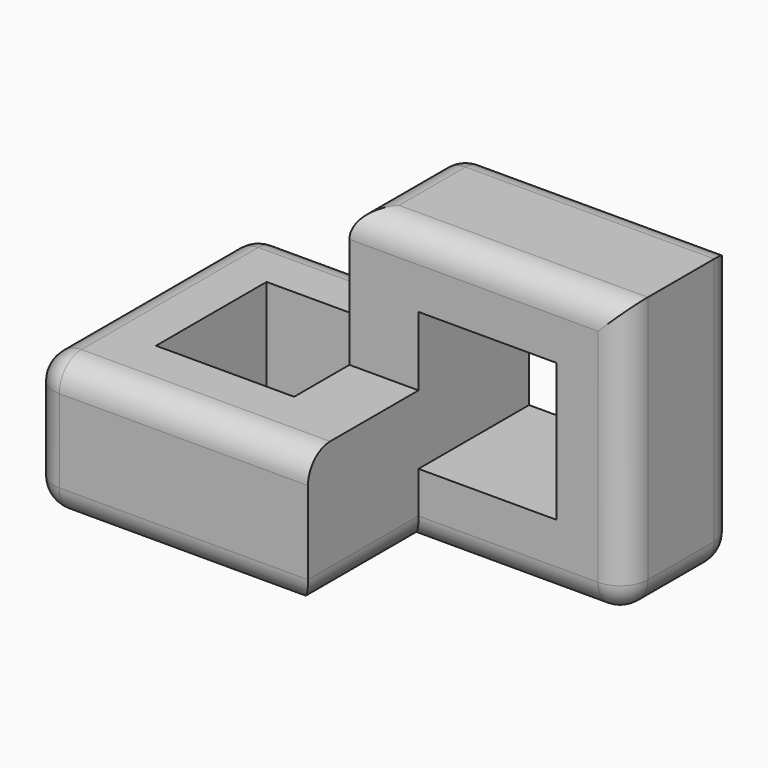
from build123d import *

# Parameters (mm, degrees)
F0_W     = 35
F0_H     = 20
F0_W_2   = 10
F0_H_2   = 10
F1_DEPTH = 20
F2_W     = 10
F2_H     = 5
F3_DEPTH = 25
F5_DEPTH = 10
F6_DEPTH = 10
F7_R     = 2


with BuildPart() as f1:
    # F0 (on Top) → F1 (new body)
    with BuildSketch(Plane.XY):
        with Locations((12.5, 5)):
            Rectangle(F0_W, F0_H)
        with Locations((5, 5)):
            Rectangle(F0_W_2, F0_H_2, mode=Mode.SUBTRACT)
    extrude(amount=F1_DEPTH)

    # F2 (on face) → F3 (cut)
    with BuildSketch(Plane.XZ.offset(5)):
        with Locations((20, 12.5)):
            Rectangle(F2_W, F2_H)
        with Locations((20, 7.5)):
            Rectangle(F2_W, F2_H)
    extrude(amount=-F3_DEPTH, mode=Mode.SUBTRACT)

    # F4 (on face) → F5 (cut)
    with BuildSketch(Plane.XY.offset(20)):
        Polygon((10, 10), (10, 15), (-5, 15), (-5, -5), (10, -5), (10, 0), (0, 0), (0, 10), align=None)
    extrude(amount=-F5_DEPTH, mode=Mode.SUBTRACT)

    # F2 (on face) → F6 (cut)
    with BuildSketch(Plane.XZ.offset(5)):
        Polygon((15, 10), (15, 15), (25, 15), (25, 10), (30, 10), (30, 20), (10, 20), (10, 10), align=None)
        Polygon((30, 10), (25, 10), (25, 5), (15, 5), (15, 0), (30, 0), align=None)
    extrude(amount=-F6_DEPTH, mode=Mode.SUBTRACT)

    # F7
    f7_edges = [f1.edges().sort_by_distance(p)[0] for p in [
        (-5, 5, 10),
        (5, -5, 10),
        (2.5, 15, 10),
        (10, 15, 15),
        (10, 10, 20),
        (20, 15, 20),
        (30, 15, 10),
        (12.5, 15, 0),
        (-5, 15, 5),
        (-5, -5, 5),
        (30, 10, 0),
        (22.5, 5, 0),
        (15, 0, 0),
        (30, 5, 10),
        (20, 5, 20),
        (5, -5, 0),
        (-5, 5, 0),
    ]]
    fillet(f7_edges, radius=F7_R)


solid = f1.part
